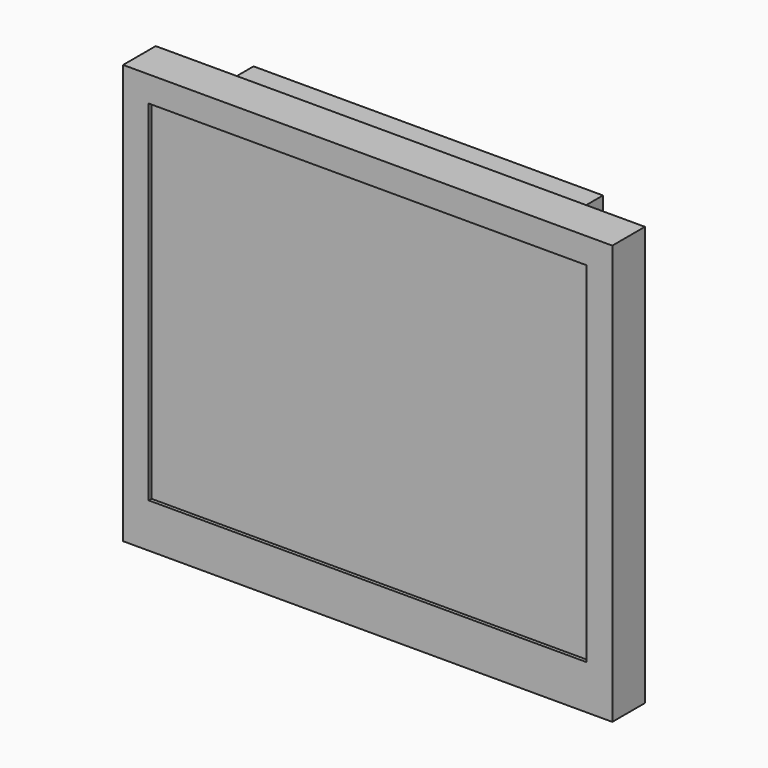
from build123d import *

# Parameters (mm, degrees)
F0_W      = 420
F0_H      = 360
F0_W_2    = 376
F0_H_2    = 300
F1_DEPTH  = 13
F2_W      = 420
F2_H      = 360
F3_DEPTH  = 22
F4_W      = 376
F4_H      = 300
F5_DEPTH  = 10
F6_W      = 300
F6_H      = 235
F7_DEPTH  = 30
F9_DEPTH  = 40
F11_DEPTH = 40
F13_D     = 3.2
F13_DEPTH = 15
F13_TIP   = 0.9613769904


with BuildPart() as f1:
    # F0 (on Front) → F1 (new body)
    with BuildSketch(Plane.XZ):
        Rectangle(F0_W, F0_H)
        with Locations((0, 8)):
            Rectangle(F0_W_2, F0_H_2, mode=Mode.SUBTRACT)
    extrude(amount=F1_DEPTH)

    # F2 (on face) → F3 (join)
    with BuildSketch(Plane(origin=(0, 0, 0), x_dir=(-1, 0, 0), z_dir=(0, 1, 0))):
        Rectangle(F2_W, F2_H)
    extrude(amount=F3_DEPTH)

    # F6 (on face) → F7 (join)
    with BuildSketch(Plane(origin=(0, 22, 0), x_dir=(-1, 0, 0), z_dir=(0, 1, 0))):
        with Locations((0, 54.5)):
            Rectangle(F6_W, F6_H)
    extrude(amount=F7_DEPTH)

    # F8 (on face) → F9 (join)
    with BuildSketch(Plane.YZ.offset(150)):
        with BuildLine():
            Line((22, -63), (21.895647049, -119.5354834199))
            ThreePointArc((21.895647049, -119.5354834199), (45.1873930634, -95.6551970665), (52, -63))
            Line((52, -63), (22, -63))
        make_face()
    extrude(amount=-F9_DEPTH)

    # F10 (on face) → F11 (join)
    with BuildSketch(Plane(origin=(-150, 0, 0), x_dir=(0, -1, 0), z_dir=(-1, 0, 0))):
        with BuildLine():
            Line((-22, -63), (-52, -63))
            ThreePointArc((-52, -63), (-45.3931806107, -95.721706093), (-21.9098161906, -119.4470450282))
            Line((-21.9098161906, -119.4470450282), (-22, -63))
        make_face()
    extrude(amount=-F11_DEPTH)

    # F13
    with Locations(Plane(origin=(0, 52, 0), x_dir=(-1, 0, 0), z_dir=(0, 1, 0))):
        with Locations((-50, 50), (50, 50), (50, -50), (-50, -50)):
            Hole(F13_D / 2, depth=F13_DEPTH)
            with Locations((0, 0, -(F13_DEPTH + F13_TIP / 2))):  # 118° drill point
                Cone(0, F13_D / 2, F13_TIP, mode=Mode.SUBTRACT)


with BuildPart() as f5:
    # F4 (on face) → F5 (new body)
    with BuildSketch(Plane.XZ):
        with Locations((0, 8)):
            Rectangle(F4_W, F4_H)
    extrude(amount=F5_DEPTH)


solid = Compound([f1.part, f5.part])
